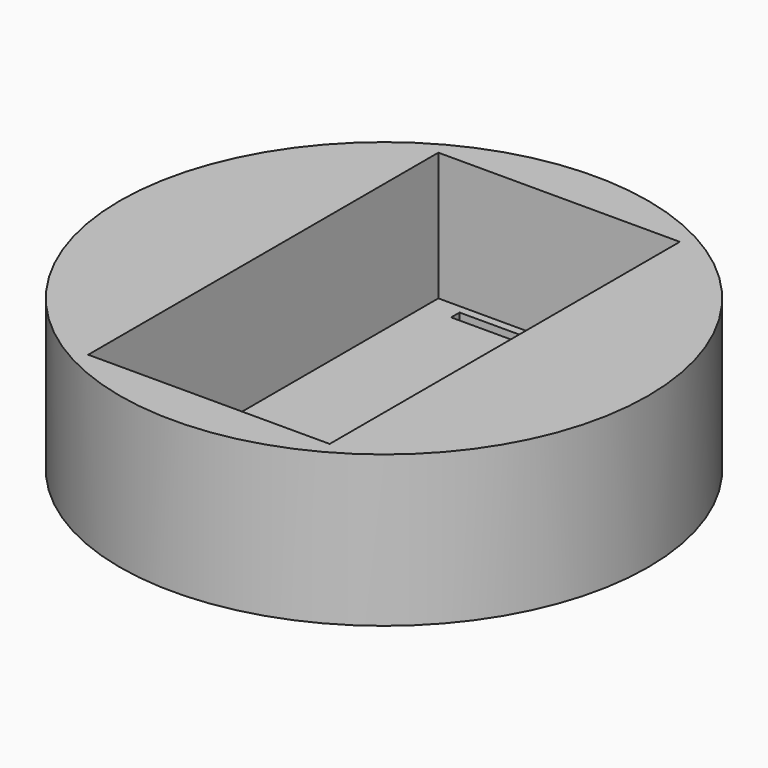
from build123d import *

# Parameters (mm, degrees)
F0_R     = 35
F1_DEPTH = 20
F2_W     = 32
F2_H     = 58
F3_DEPTH = 17
F4_W     = 10
F4_H     = 1.4
F5_DEPTH = 5
F6_W     = 10
F6_H     = 1.4
F7_DEPTH = 5


with BuildPart() as f1:
    # F0 (on Top) → F1 (new body)
    with BuildSketch(Plane.XY):
        Circle(F0_R)
    extrude(amount=F1_DEPTH)

    # F2 (on face) → F3 (cut)
    with BuildSketch(Plane.XY.offset(20)):
        Rectangle(F2_W, F2_H)
    extrude(amount=-F3_DEPTH, mode=Mode.SUBTRACT)

    # F4 (on face) → F5 (cut)
    with BuildSketch(Plane.XY.offset(3)):
        with Locations((-7.300642, 27.198469)):
            Rectangle(F4_W, F4_H)
    extrude(amount=-F5_DEPTH, mode=Mode.SUBTRACT)

    # F6 (on Top) → F7 (cut)
    with BuildSketch(Plane.XY):
        with Locations((7.077963, 27.159134)):
            Rectangle(F6_W, F6_H)
    extrude(amount=F7_DEPTH, mode=Mode.SUBTRACT)


solid = f1.part
